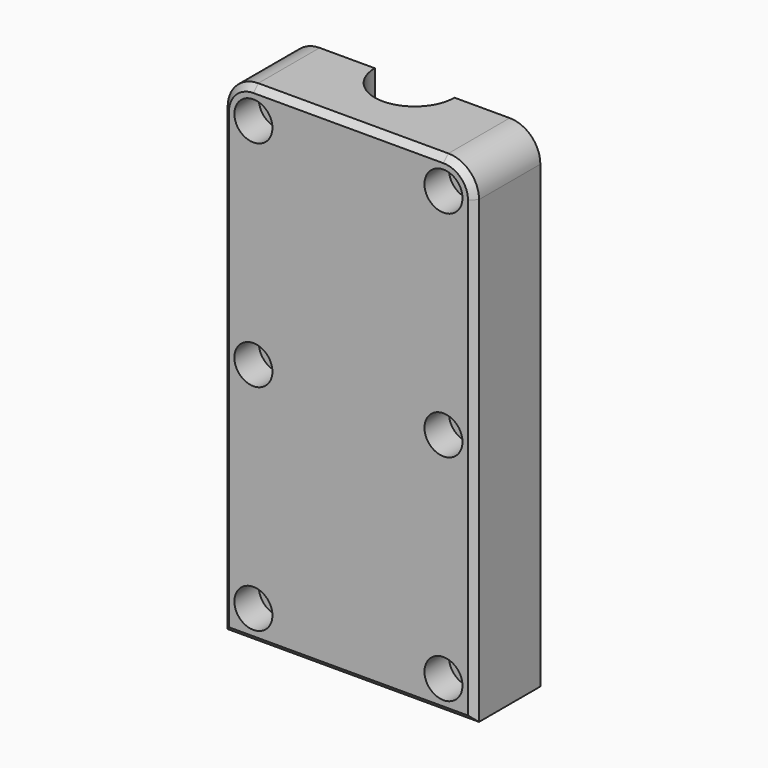
from build123d import *

# Parameters (mm, degrees)
PAD_DEPTH       = 40
SKETCH001_R     = 1.65
POCKET_DEPTH    = 13.501
SKETCH002_R     = 10.6
POCKET001_DEPTH = 30.4
SKETCH003_R     = 10.6
POCKET002_DEPTH = 30.4
FILLET_R        = 5
CHAMFER_SIZE    = 1
SKETCH004_R     = 3.1
POCKET003_DEPTH = 5


with BuildPart() as part:
    # Sketch → Pad (new body, symmetric)
    with BuildSketch(Plane.XY):
        with BuildLine():
            Line((-20.5, -13.5), (20.5, -13.5))
            Line((20.5, -13.5), (20.5, 0))
            Line((20.5, 0), (6.5, 0))
            ThreePointArc((-6.5, 0), (0, -6.5), (6.5, 0))
            Line((-6.5, 0), (-20.5, 0))
            Line((-20.5, 0), (-20.5, -13.5))
        make_face()
    extrude(amount=PAD_DEPTH, both=True)

    # Sketch001 → Pocket (cut, through all)
    with BuildSketch(Plane.XZ):
        with Locations((-15.5, 35)):
            Circle(SKETCH001_R)
        with Locations((-15.5, 0)):
            Circle(SKETCH001_R)
        with Locations((-15.5, -35)):
            Circle(SKETCH001_R)
        with Locations((15.5, -35)):
            Circle(SKETCH001_R)
        with Locations((15.5, 0)):
            Circle(SKETCH001_R)
        with Locations((15.5, 35)):
            Circle(SKETCH001_R)
    extrude(amount=POCKET_DEPTH, mode=Mode.SUBTRACT)

    # Sketch002 (on DatumPlane) → Pocket001 (cut)
    with BuildSketch(Plane.XY.offset(35)):
        Circle(SKETCH002_R)
    extrude(amount=-POCKET001_DEPTH, mode=Mode.SUBTRACT)

    # Sketch003 (on DatumPlane) → Pocket002 (cut)
    with BuildSketch(Plane.XY.offset(-35)):
        Circle(SKETCH003_R)
    extrude(amount=POCKET002_DEPTH, mode=Mode.SUBTRACT)

    # Fillet
    fillet_edges = [part.edges().sort_by_distance(p)[0] for p in [
        (-20.5, -6.75, 40),
        (20.5, -6.75, 40),
    ]]
    fillet(fillet_edges, radius=FILLET_R)

    # Chamfer
    chamfer_edges = [part.edges().sort_by_distance(p)[0] for p in [
        (-20.5, -13.5, -2.5),
        (0, -13.5, -40),
    ]]
    chamfer(chamfer_edges, length=CHAMFER_SIZE)

    # Sketch004 (on Face1 of Chamfer) → Pocket003 (cut)
    with BuildSketch(Plane.XZ.offset(13.5)):
        with Locations((-15.5, 35)):
            Circle(SKETCH004_R)
        with Locations((-15.5, 0)):
            Circle(SKETCH004_R)
        with Locations((-15.5, -35)):
            Circle(SKETCH004_R)
        with Locations((15.5, 35)):
            Circle(SKETCH004_R)
        with Locations((15.5, 0)):
            Circle(SKETCH004_R)
        with Locations((15.5, -35)):
            Circle(SKETCH004_R)
    extrude(amount=-POCKET003_DEPTH, mode=Mode.SUBTRACT)


solid = part.part
